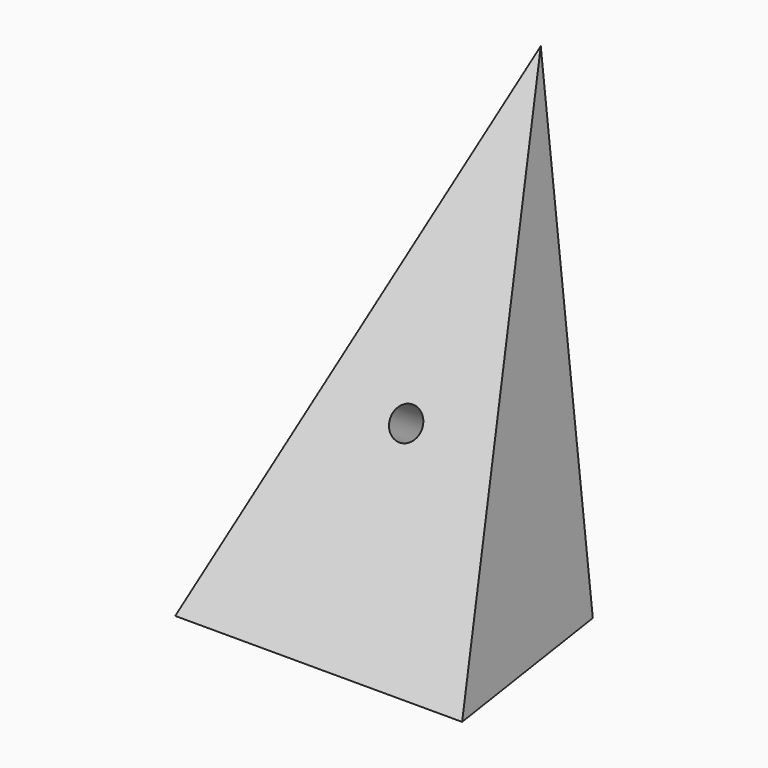
from build123d import *

# Parameters (mm, degrees)
F1_DEPTH = 63.5
F3_DEPTH = 51.8120278971
F4_R     = 3.4925
F5_DEPTH = 51.8120278971


with BuildPart() as f1:
    # F0 (on Right) → F1 (new body)
    with BuildSketch(Plane.YZ):
        Polygon((35.8086346566, 96.3798694051), (-25.6357367167, 0), (18.8142632833, 0), align=None)
    extrude(amount=F1_DEPTH)

    # F2 (on face) → F3 (cut, through all)
    with BuildSketch(Plane(origin=(0, -18.2274539145, 11.6204188118), x_dir=(1, 0, 0), z_dir=(0, -0.843218455, 0.5375710531))):
        Polygon((63.5, 100.5189700153), (31.75, 100.5189700153), (63.5, -13.7810299847), align=None)
        Polygon((0, 100.5189700153), (0, -13.7810299847), (31.75, 100.5189700153), align=None)
    extrude(amount=-F3_DEPTH, mode=Mode.SUBTRACT)

    # F4 (on face) → F5 (cut, through all)
    with BuildSketch(Plane(origin=(0, -18.2274539145, 11.6204188118), x_dir=(1, 0, 0), z_dir=(0, -0.843218455, 0.5375710531))):
        with Locations((31.75, 31.2540056114)):
            Circle(F4_R)
    extrude(amount=-F5_DEPTH, mode=Mode.SUBTRACT)


solid = f1.part
